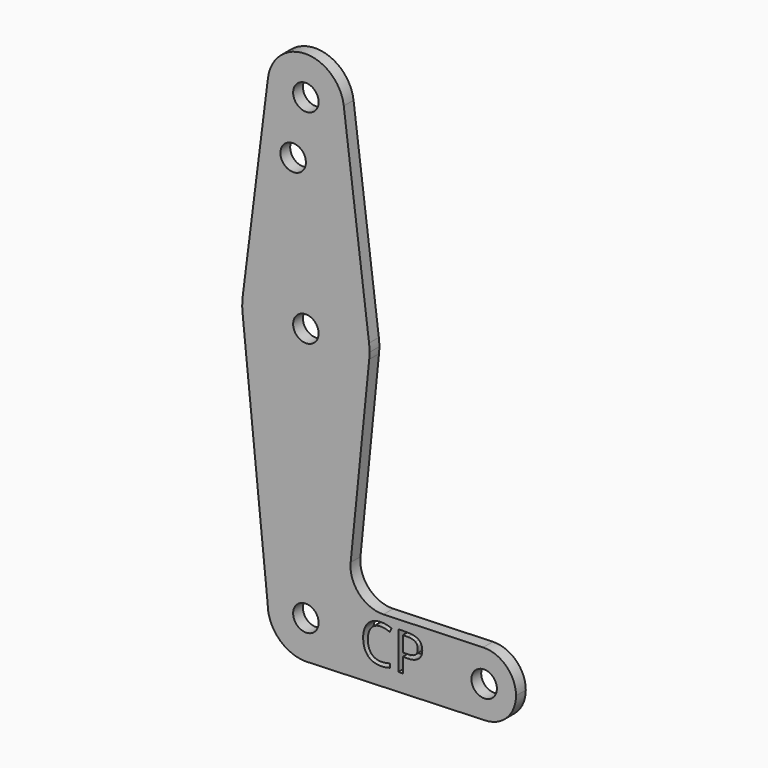
from build123d import *

# Parameters (mm, degrees)
F0_R     = 3.175
F1_DEPTH = 3.048


with BuildPart() as f1:
    # F0 (on Front) → F1 (new body)
    with BuildSketch(Plane.XZ):
        with BuildLine():
            ThreePointArc((0.6773435479, -9.500885786), (6.9705567315, -6.4912990883), (9.525, 0))
            ThreePointArc((9.525, 0), (0, 9.525), (-9.525, 0))
            ThreePointArc((-9.525, 0), (-6.7351920908, -6.7351920908), (0, -9.525))
            Line((0, -9.525), (0.6773435479, -9.500885786))
        make_face()
        Circle(F0_R, mode=Mode.SUBTRACT)
        with BuildLine():
            ThreePointArc((-9.525, 0), (0, 9.525), (9.525, 0))
            ThreePointArc((9.525, 0), (6.9705567315, -6.4912990883), (0.6773435479, -9.500885786))
            Line((0.6773435479, -9.500885786), (44.7324052746, -7.9324746146))
            ThreePointArc((44.7324052746, -7.9324746146), (36.517244624, -0.2744055301), (44.1835944934, 7.9330280698))
            Line((44.1835944934, 7.9330280698), (19.3421003836, 7.0988055303))
            ThreePointArc((19.3421003836, 7.0988055303), (13.26958371, 9.6131635709), (11.1649195057, 15.839546445))
            Line((11.1649195057, 15.839546445), (15.7954255641, 61.9125))
            ThreePointArc((15.7954255641, 61.9125), (0.0060905531, 47.6250011683), (-15.7942028036, 61.9003804205))
            Line((-15.7942028036, 61.9003804205), (-9.525, 0))
        make_face()
        with BuildLine():
            add(Edge.make_bspline(
                [(20.9206411995, 3.7311409307), (19.8544890082, 4.2303220145), (18.7883368169, 4.2303220145)],
                knots=[0, 0, 0, 1, 1, 1], degree=2))
            add(Edge.make_bspline(
                [(18.7883368169, 4.2303220145), (17.2414917301, 4.2303220145), (16.3458417197, 3.2001190782)],
                knots=[0, 0, 0, 1, 1, 1], degree=2))
            add(Edge.make_bspline(
                [(16.3458417197, 3.2001190782), (15.4501917092, 2.1699161419), (15.4501917092, 0.378616121)],
                knots=[0, 0, 0, 1, 1, 1], degree=2))
            add(Edge.make_bspline(
                [(15.4501917092, 0.378616121), (15.4501917092, -1.4619857353), (16.3140009509, -2.4675377538)],
                knots=[0, 0, 0, 1, 1, 1], degree=2))
            add(Edge.make_bspline(
                [(16.3140009509, -2.4675377538), (17.1778101926, -3.4730897724), (18.7760113581, -3.4730897724)],
                knots=[0, 0, 0, 1, 1, 1], degree=2))
            add(Edge.make_bspline(
                [(18.7760113581, -3.4730897724), (19.7579395805, -3.4730897724), (21.0171906273, -3.1197599518)],
                knots=[0, 0, 0, 1, 1, 1], degree=2))
            Line((21.0171906273, -3.1197599518), (21.0171906273, -4.0749830134))
            add(Edge.make_bspline(
                [(21.0171906273, -4.0749830134), (20.0414251343, -4.442692536), (18.6096176635, -4.442692536)],
                knots=[0, 0, 0, 1, 1, 1], degree=2))
            add(Edge.make_bspline(
                [(18.6096176635, -4.442692536), (16.536886332, -4.442692536), (15.4101339679, -3.1834414893)],
                knots=[0, 0, 0, 1, 1, 1], degree=2))
            add(Edge.make_bspline(
                [(15.4101339679, -3.1834414893), (14.2833816039, -1.9241904425), (14.2833816039, 0.3929958231)],
                knots=[0, 0, 0, 1, 1, 1], degree=2))
            add(Edge.make_bspline(
                [(14.2833816039, 0.3929958231), (14.2833816039, 1.8432914821), (14.8257017937, 2.9340945912)],
                knots=[0, 0, 0, 1, 1, 1], degree=2))
            add(Edge.make_bspline(
                [(14.8257017937, 2.9340945912), (15.3680219835, 4.0248977002), (16.3920621904, 4.6154926039)],
                knots=[0, 0, 0, 1, 1, 1], degree=2))
            add(Edge.make_bspline(
                [(16.3920621904, 4.6154926039), (17.4161023973, 5.2060875076), (18.8027165189, 5.2060875076)],
                knots=[0, 0, 0, 1, 1, 1], degree=2))
            add(Edge.make_bspline(
                [(18.8027165189, 5.2060875076), (20.2776630957, 5.2060875076), (21.3828459068, 4.667875804)],
                knots=[0, 0, 0, 1, 1, 1], degree=2))
            Line((21.3828459068, 4.667875804), (20.9206411995, 3.7311409307))
        make_face(mode=Mode.SUBTRACT)
        with BuildLine():
            add(Edge.make_bspline(
                [(25.4995491657, 5.0725617032), (29.0164134269, 5.0725617032), (29.0164134269, 2.3383640797)],
                knots=[0, 0, 0, 1, 1, 1], degree=2))
            add(Edge.make_bspline(
                [(29.0164134269, 2.3383640797), (29.0164134269, 0.9127193383), (28.0437292986, 0.1454595243)],
                knots=[0, 0, 0, 1, 1, 1], degree=2))
            add(Edge.make_bspline(
                [(28.0437292986, 0.1454595243), (27.0710451703, -0.6218002897), (25.2612569611, -0.6218002897)],
                knots=[0, 0, 0, 1, 1, 1], degree=2))
            Line((25.2612569611, -0.6218002897), (24.1560741501, -0.6218002897))
            Line((24.1560741501, -0.6218002897), (24.1560741501, -4.313275218))
            Line((24.1560741501, -4.313275218), (23.065271041, -4.313275218))
            Line((23.065271041, -4.313275218), (23.065271041, 5.0725617032))
            Line((23.065271041, 5.0725617032), (25.4995491657, 5.0725617032))
        make_face(mode=Mode.SUBTRACT)
        with BuildLine():
            ThreePointArc((0, -9.525), (0.3388863295, -9.5189695375), (0.6773435479, -9.500885786))
            Line((0.6773435479, -9.500885786), (0, -9.525))
        make_face()
        with BuildLine():
            ThreePointArc((-15.7504882737, 65.484375), (-15.8738192656, 63.6936154008), (-15.7942028036, 61.9003804205))
            ThreePointArc((-15.7942028036, 61.9003804205), (0.0060905531, 47.6250011683), (15.7954255641, 61.9125))
            ThreePointArc((15.7954255641, 61.9125), (15.8550939106, 62.7052534459), (15.875, 63.5))
            ThreePointArc((15.875, 63.5), (15.8438414904, 64.4941387366), (15.7504882737, 65.484375))
            ThreePointArc((15.7504882737, 65.484375), (0, 79.375), (-15.7504882737, 65.484375))
        make_face()
        with Locations((0, 63.5)):
            Circle(F0_R, mode=Mode.SUBTRACT)
        with BuildLine():
            ThreePointArc((44.1835944934, 7.9330280698), (36.517244624, -0.2744055301), (44.7324052746, -7.9324746146))
            ThreePointArc((44.7324052746, -7.9324746146), (50.1616327839, -5.5119104847), (52.3875, 0))
            ThreePointArc((52.3875, 0), (49.9676676477, 5.7060713262), (44.1835944934, 7.9330280698))
        make_face()
        with Locations((44.45, 0)):
            Circle(F0_R, mode=Mode.SUBTRACT)
        with BuildLine():
            Line((-9.4502929642, 115.490625), (-15.7504882737, 65.484375))
            ThreePointArc((-15.7504882737, 65.484375), (0, 79.375), (15.7504882737, 65.484375))
            Line((15.7504882737, 65.484375), (9.4502929642, 115.490625))
            ThreePointArc((9.4502929642, 115.490625), (9.5063048942, 114.896483242), (9.525, 114.3))
            ThreePointArc((9.525, 114.3), (-0.596483242, 104.7936951058), (-9.4502929642, 115.490625))
        make_face()
        with Locations((-3.175, 100.0252)):
            Circle(F0_R, mode=Mode.SUBTRACT)
        with BuildLine():
            ThreePointArc((9.4502929642, 115.490625), (0, 123.825), (-9.4502929642, 115.490625))
            ThreePointArc((-9.4502929642, 115.490625), (-0.596483242, 104.7936951058), (9.525, 114.3))
            ThreePointArc((9.525, 114.3), (9.5063048942, 114.896483242), (9.4502929642, 115.490625))
        make_face()
        with Locations((0, 114.3)):
            Circle(F0_R, mode=Mode.SUBTRACT)
    extrude(amount=F1_DEPTH)


with BuildPart() as f1b:
    # F0 (on Front) → F1, piece 2 (new body)
    with BuildSketch(Plane.XZ):
        with BuildLine():
            Line((24.1560741501, 4.1276098574), (24.1560741501, 0.3149345836))
            Line((24.1560741501, 0.3149345836), (25.1400566157, 0.3149345836))
            add(Edge.make_bspline(
                [(25.1400566157, 0.3149345836), (26.5903522748, 0.3149345836), (27.2384659864, 0.7833020203)],
                knots=[0, 0, 0, 1, 1, 1], degree=2))
            add(Edge.make_bspline(
                [(27.2384659864, 0.7833020203), (27.8865796981, 1.2516694569), (27.8865796981, 2.2870080011)],
                knots=[0, 0, 0, 1, 1, 1], degree=2))
            add(Edge.make_bspline(
                [(27.8865796981, 2.2870080011), (27.8865796981, 3.2175801449), (27.2764694846, 3.6725950012)],
                knots=[0, 0, 0, 1, 1, 1], degree=2))
            add(Edge.make_bspline(
                [(27.2764694846, 3.6725950012), (26.6663592711, 4.1276098574), (25.3762945771, 4.1276098574)],
                knots=[0, 0, 0, 1, 1, 1], degree=2))
            Line((25.3762945771, 4.1276098574), (24.1560741501, 4.1276098574))
        make_face()
    extrude(amount=F1_DEPTH)


solid = Compound([f1.part, f1b.part])
